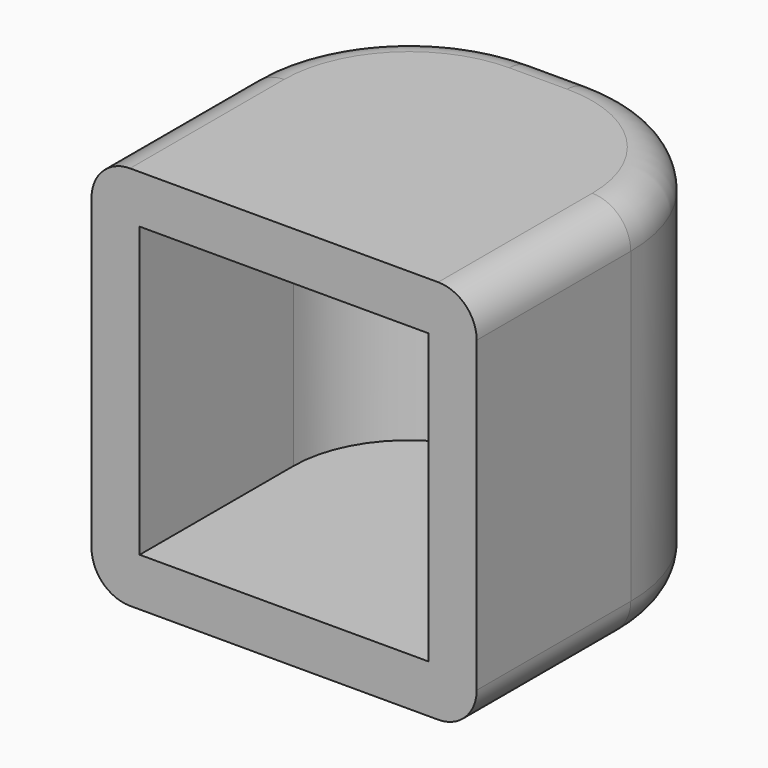
from build123d import *

# Parameters (mm, degrees)
PAD_DEPTH    = 3.75
PAD001_DEPTH = 1.25
FILLET_R     = 1


with BuildPart() as part:
    # Sketch → Pad (new body, symmetric)
    with BuildSketch(Plane.XY):
        with BuildLine():
            Line((-5, 0), (-3.75, 0))
            Line((-3.75, 0), (-3.75, 5))
            ThreePointArc((-0.75, 8), (-2.87132, 7.12132), (-3.75, 5))
            Line((-0.75, 8), (0.75, 8))
            ThreePointArc((3.75, 5), (2.87132, 7.12132), (0.75, 8))
            Line((3.75, 5), (3.75, 0))
            Line((3.75, 0), (5, 0))
            Line((5, 0), (5, 5))
            ThreePointArc((5, 5), (3.755204, 8.005204), (0.75, 9.25))
            Line((-0.75, 9.25), (0.75, 9.25))
            ThreePointArc((-0.75, 9.25), (-3.755204, 8.005204), (-5, 5))
            Line((-5, 0), (-5, 5))
        make_face()
    extrude(amount=PAD_DEPTH, both=True)

    # Sketch001 (on Face14 of Pad) → Pad001 (join)
    with BuildSketch(Plane.XY.offset(3.75)):
        with BuildLine():
            Line((-5, 0), (-3.75, 0))
            Line((-3.75, 0), (3.75, 0))
            Line((3.75, 0), (5, 0))
            Line((5, 0), (5, 5))
            ThreePointArc((5, 5), (3.755204, 8.005204), (0.75, 9.25))
            Line((-0.75, 9.25), (0.75, 9.25))
            ThreePointArc((-0.75, 9.25), (-3.755204, 8.005204), (-5, 5))
            Line((-5, 0), (-5, 5))
        make_face()
    pad001 = extrude(amount=PAD001_DEPTH)

    # Mirrored: Pad001 across XY
    add(pad001.mirror(Plane.XY))

    # Fillet
    fillet_edges = [part.edges().sort_by_distance(p)[0] for p in [
        (5, 2.5, 5),
        (5, 2.5, -5),
    ]]
    fillet(fillet_edges, radius=FILLET_R)


solid = part.part
